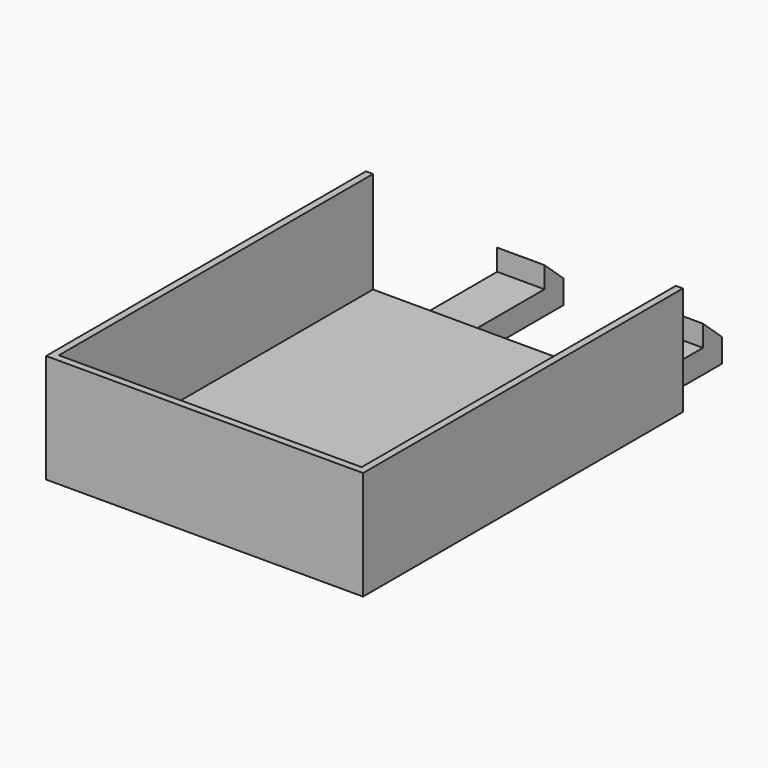
from build123d import *

# Parameters (mm, degrees)
F0_W      = 64
F0_H      = 1.5
F1_DEPTH  = 23
F0_H_2    = 83
F2_DEPTH  = 1.5
F3_W      = 10
F3_H      = 10
F4_DEPTH  = 5
F5_W      = 10
F5_H      = 5
F6_DEPTH  = 25
F7_W      = 10
F7_H      = 5
F8_DEPTH  = 5
F10_DEPTH = 47.7


with BuildPart() as f1:
    # F0 (on Top) → F1 (new body)
    with BuildSketch(Plane.XY):
        Polygon((-32, 48.42079), (-33.5, 48.42079), (-33.5, -36.07921), (-32, -36.07921), (-32, -34.57921), align=None)
        with Locations((0, -35.32921)):
            Rectangle(F0_W, F0_H)
        Polygon((33.5, 48.42079), (32, 48.42079), (32, -34.57921), (32, -36.07921), (33.5, -36.07921), align=None)
    extrude(amount=F1_DEPTH)

    # F0 (on Top) → F2 (join)
    with BuildSketch(Plane.XY):
        Polygon((-32, 48.42079), (-33.5, 48.42079), (-33.5, -36.07921), (-32, -36.07921), (-32, -34.57921), align=None)
        with Locations((0, 6.92079)):
            Rectangle(F0_W, F0_H_2)
        Polygon((33.5, 48.42079), (32, 48.42079), (32, -34.57921), (32, -36.07921), (33.5, -36.07921), align=None)
        with Locations((0, -35.32921)):
            Rectangle(F0_W, F0_H)
    extrude(amount=F2_DEPTH)

    # F3 (on face) → F4 (join)
    with BuildSketch(Plane(origin=(0, 0, 0), x_dir=(1, 0, 0), z_dir=(0, 0, -1))):
        with Locations((16.75, -43.42079)):
            Rectangle(F3_W, F3_H)
        with Locations((-16.75, -43.42079)):
            Rectangle(F3_W, F3_H)
    extrude(amount=F4_DEPTH)

    # F5 (on face) → F6 (join)
    with BuildSketch(Plane(origin=(0, 48.42079, 0), x_dir=(-1, 0, 0), z_dir=(0, 1, 0))):
        with Locations((-16.75, -2.5)):
            Rectangle(F5_W, F5_H)
        with Locations((16.75, -2.5)):
            Rectangle(F5_W, F5_H)
    extrude(amount=F6_DEPTH)

    # F7 (on face) → F8 (join)
    with BuildSketch(Plane.XY):
        with Locations((16.75, 70.92079)):
            Rectangle(F7_W, F7_H)
        with Locations((-16.75, 70.92079)):
            Rectangle(F7_W, F7_H)
    extrude(amount=F8_DEPTH)

    # F9 (on face) → F10 (cut)
    with BuildSketch(Plane.YZ.offset(21.75)):
        Polygon((73.42079, 5), (68.42079, 5), (68.42079, 4.5), (73.42079, 0), align=None)
    extrude(amount=-F10_DEPTH, mode=Mode.SUBTRACT)


with BuildPart() as f11_1:
    # F11: copy of F1
    add(f1.part)


solid = f11_1.part
